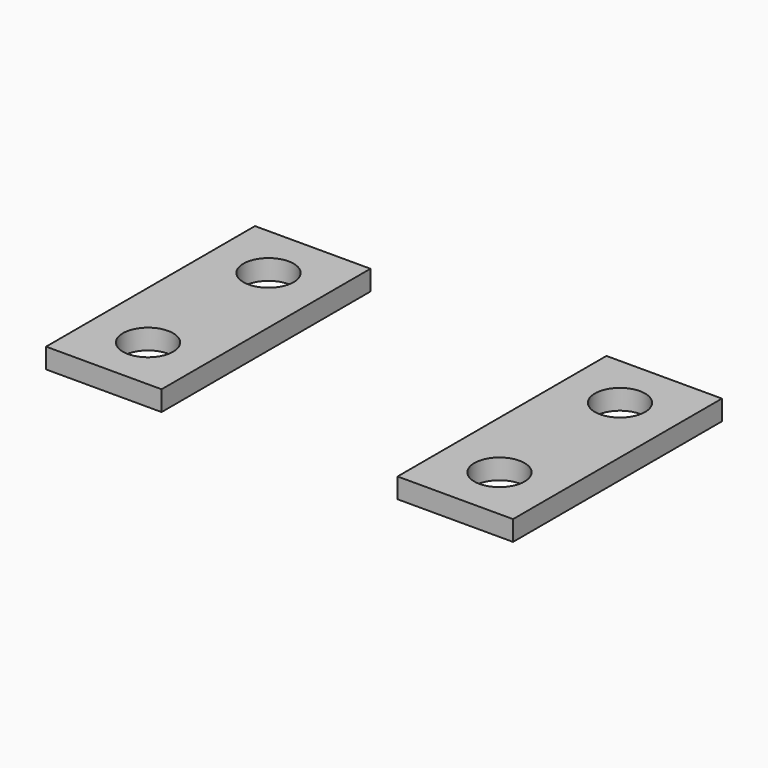
from build123d import *

# Parameters (mm, degrees)
F0_W     = 23
F0_H     = 52
F0_R     = 5
F1_DEPTH = 4


with BuildPart() as f1:
    # F0 (on Top) → F1 (new body)
    with BuildSketch(Plane.XY):
        with Locations((70, 0)):
            Rectangle(F0_W, F0_H)
        with Locations((70, -15)):
            Circle(F0_R, mode=Mode.SUBTRACT)
        with Locations((70, 15)):
            Circle(F0_R, mode=Mode.SUBTRACT)
        Rectangle(F0_W, F0_H)
        with Locations((0, -15)):
            Circle(F0_R, mode=Mode.SUBTRACT)
        with Locations((0, 15)):
            Circle(F0_R, mode=Mode.SUBTRACT)
    extrude(amount=F1_DEPTH)


solid = f1.part
